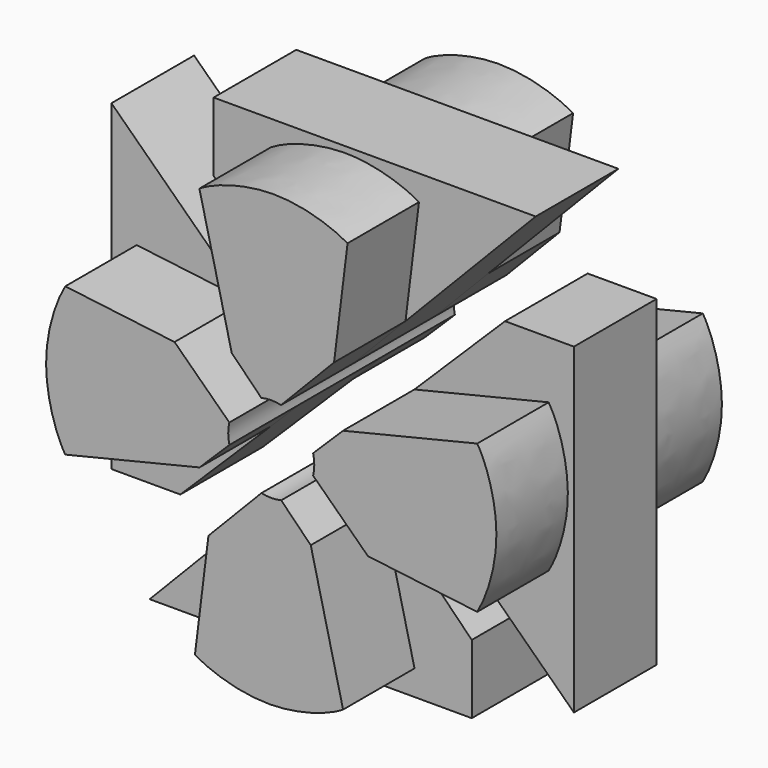
from build123d import *

# Parameters (mm, degrees)
F1_DEPTH      = 3.095
F3_DEPTH      = 8.445
F7_COUNT      = 4
F8_R          = 2.5781
F9_DEPTH      = 8.4460001
F9_DEPTH_BACK = 8.4460001


with BuildPart() as f1:
    # F0 (on Front) → F1 (new body, symmetric)
    with BuildSketch(Plane.XZ):
        Polygon((11.5652237332, 11.95), (0, 0), (19.3, 0), (19.3, 4.1286678818), align=None)
    extrude(amount=F1_DEPTH, both=True)

    # F2 (on Front) → F3 (join, symmetric)
    with BuildSketch(Plane.XZ):
        with BuildLine():
            Line((13.932926336, 9.555801671), (11.5652237332, 11.95))
            Line((11.5652237332, 11.95), (7.8017793698, 8.0613454283))
            Line((7.8017793698, 8.0613454283), (6.9926385768, 1.5128084924))
            add(Edge.make_bspline(
                [(6.9926385768, 1.5128084924), (7.9436427917, 0.9535204283), (11.3715528422, -0.2218124125), (14.9808283626, 0.9440175404), (15.870211611, 1.5128084924)],
                knots=[0, 0, 0, 0, 0.4987797835, 1, 1, 1, 1], degree=3))
            Line((15.870211611, 1.5128084924), (13.932926336, 9.555801671))
        make_face()
    extrude(amount=F3_DEPTH, both=True)


with BuildPart() as f7_1:
    # F7: instance of F1
    add(f1.part.rotate(Axis((11.5652237332, 0, 13.855), (0, -1, 0)), 1 * 360 / F7_COUNT))


with BuildPart() as f7_2:
    # F7: instance of F1
    add(f1.part.rotate(Axis((11.5652237332, 0, 13.855), (0, -1, 0)), 2 * 360 / F7_COUNT))


with BuildPart() as f7_3:
    # F7: instance of F1
    add(f1.part.rotate(Axis((11.5652237332, 0, 13.855), (0, -1, 0)), 3 * 360 / F7_COUNT))


with BuildPart() as f9_tool:
    # F8 (on Front) → F9 (new body, two sides)
    with BuildSketch(Plane.XZ) as f9_sk:
        with Locations((11.5652237332, 13.855)):
            Circle(F8_R)
    extrude(amount=-F9_DEPTH)
    extrude(f9_sk.sketch, amount=F9_DEPTH_BACK)


with BuildPart() as f1_1:
    add(f1.part)

    # F9: cut by f9_tool
    add(f9_tool.part, mode=Mode.SUBTRACT)


with BuildPart() as f7_1_1:
    add(f7_1.part)

    # F9: cut by f9_tool
    add(f9_tool.part, mode=Mode.SUBTRACT)


with BuildPart() as f7_2_1:
    add(f7_2.part)

    # F9: cut by f9_tool
    add(f9_tool.part, mode=Mode.SUBTRACT)


with BuildPart() as f7_3_1:
    add(f7_3.part)

    # F9: cut by f9_tool
    add(f9_tool.part, mode=Mode.SUBTRACT)


solid = Compound([f1_1.part, f7_1_1.part, f7_2_1.part, f7_3_1.part])
